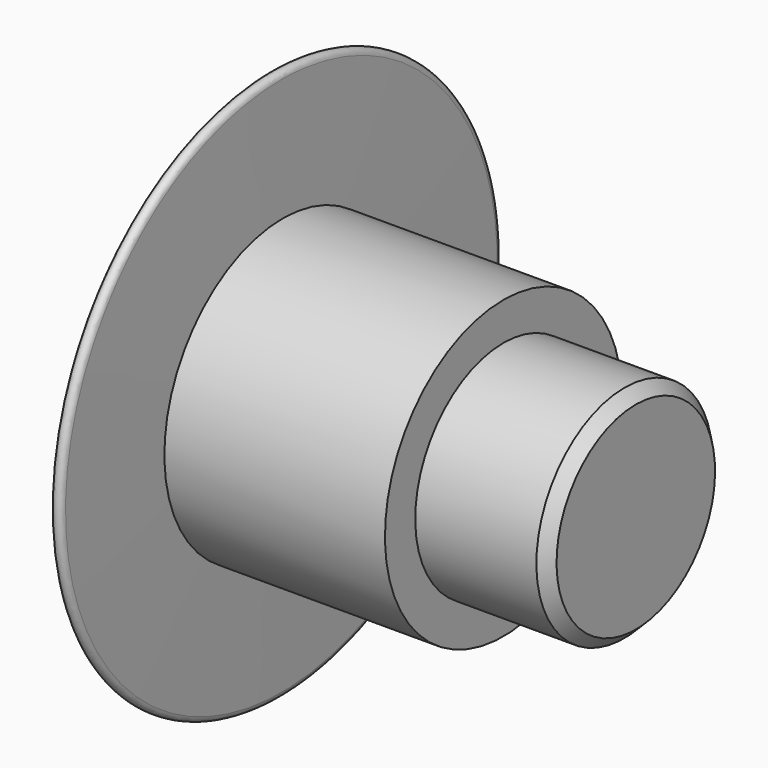
from build123d import *

# Parameters (mm, degrees)
F2_SIZE = 0.254
F3_R    = 0.127


with BuildPart() as f1:
    # F0 (on Front) → F1 (revolve)
    with BuildSketch(Plane.XZ):
        with BuildLine():
            ThreePointArc((2.172895, 6.5), (0.557607, 3.426787), (0, 0))
            Line((0, 0), (10.213509, 0))
            Line((10.213509, 0), (10.213509, 2.5))
            Line((10.213509, 2.5), (7.213509, 2.5))
            Line((7.213509, 2.5), (7.213509, 3.358959))
            Line((7.213509, 3.358959), (2.213509, 3.358959))
            Line((2.213509, 3.358959), (2.172895, 6.5))
        make_face()
    revolve(axis=Axis((5.106755, 0, 0), (1, 0, 0)))

    # F2
    f2_edges = [f1.edges().sort_by_distance(p)[0] for p in [
        (10.213509, 0, -2.5),
    ]]
    chamfer(f2_edges, length=F2_SIZE)

    # F3
    f3_edges = [f1.edges().sort_by_distance(p)[0] for p in [
        (2.172895, 0, -6.5),
    ]]
    fillet(f3_edges, radius=F3_R)


solid = f1.part
